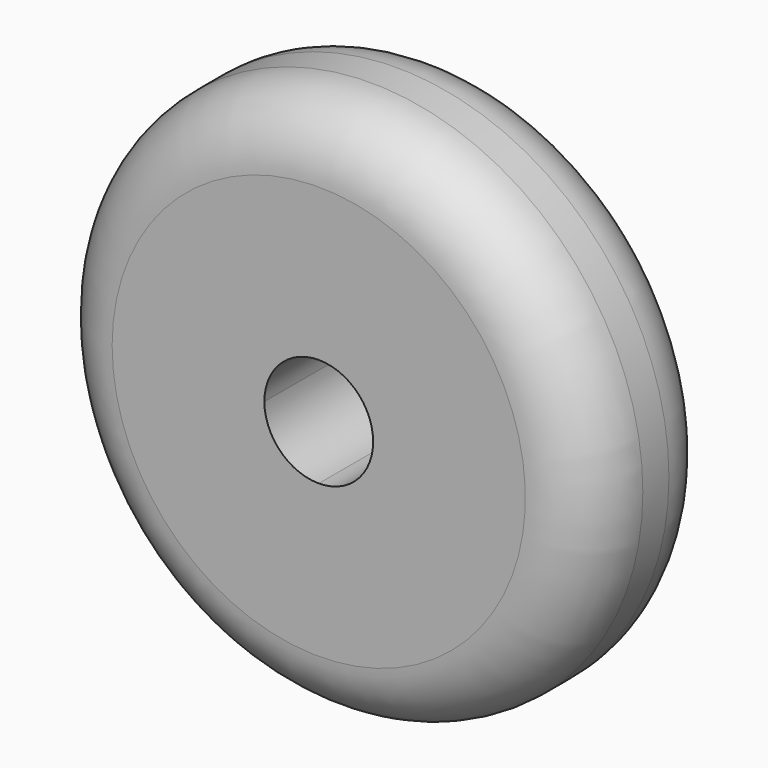
from build123d import *

# Parameters (mm, degrees)
F1_DEPTH = 9.525
F2_R     = 3.81


with BuildPart() as f1:
    # F0 (on Front) → F1 (new body)
    with BuildSketch(Plane.XZ):
        with BuildLine():
            ThreePointArc((15.875, 0), (0, 15.875), (-15.875, 0))
            ThreePointArc((-15.875, 0), (0, -15.875), (15.875, 0))
        make_face()
        with BuildLine():
            ThreePointArc((0, -3.175), (-2.2450640303, -2.2450640303), (-3.175, 0))
            ThreePointArc((-3.175, 0), (0, 3.175), (3.175, 0))
            ThreePointArc((3.175, 0), (2.2450640303, -2.2450640303), (0, -3.175))
        make_face(mode=Mode.SUBTRACT)
    extrude(amount=F1_DEPTH)

    # F2
    f2_edges = [f1.edges().sort_by_distance(p)[0] for p in [
        (15.875, -9.525, 0),
        (15.875, 0, 0),
    ]]
    fillet(f2_edges, radius=F2_R)


solid = f1.part
